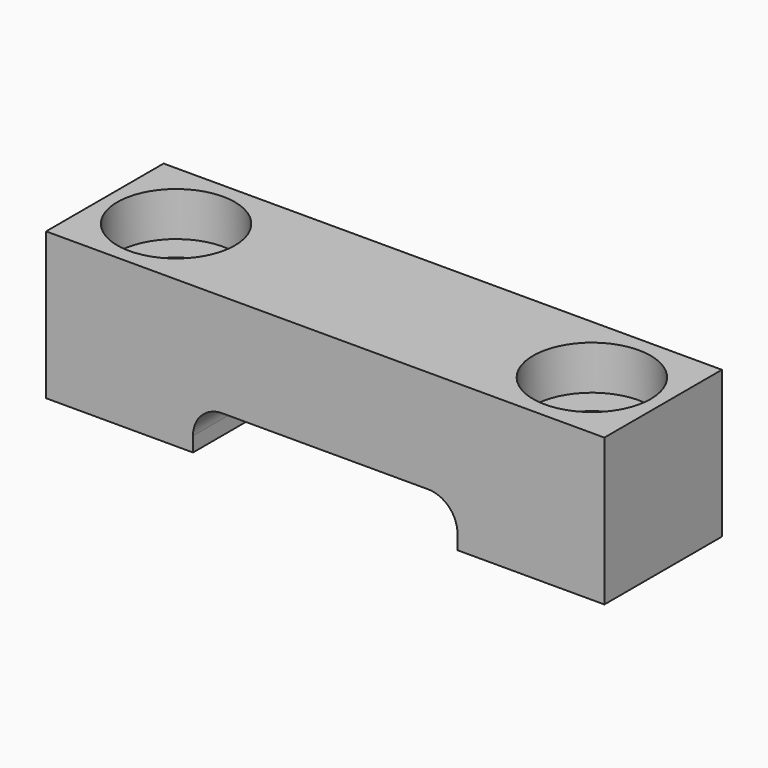
from build123d import *

# Parameters (mm, degrees)
F0_W     = 38
F0_H     = 10
F0_R     = 1.9
F1_DEPTH = 10
F2_W     = 18
F2_H     = 3
F3_DEPTH = 10.001
F4_R     = 2.7
F5_DEPTH = 4
F6_R     = 2
F7_R     = 4
F8_DEPTH = 3


with BuildPart() as f1:
    # F0 (on Top) → F1 (new body)
    with BuildSketch(Plane.XY):
        Rectangle(F0_W, F0_H)
        with Locations((-14.15, 0)):
            Circle(F0_R, mode=Mode.SUBTRACT)
        with Locations((14.15, 0)):
            Circle(F0_R, mode=Mode.SUBTRACT)
    extrude(amount=F1_DEPTH)

    # F2 (on face) → F3 (cut, through all)
    with BuildSketch(Plane.XZ.offset(5)):
        with Locations((0, 1.5)):
            Rectangle(F2_W, F2_H)
    extrude(amount=-F3_DEPTH, mode=Mode.SUBTRACT)

    # F4 (on face) → F5 (cut)
    with BuildSketch(Plane(origin=(0, 0, 0), x_dir=(1, 0, 0), z_dir=(0, 0, -1))):
        with Locations((-14.15, 0)):
            Circle(F4_R)
        with Locations((14.15, 0)):
            Circle(F4_R)
    extrude(amount=-F5_DEPTH, mode=Mode.SUBTRACT)

    # F6
    f6_edges = [f1.edges().sort_by_distance(p)[0] for p in [
        (-9, 0, 3),
        (9, 0, 3),
    ]]
    fillet(f6_edges, radius=F6_R)

    # F7 (on face) → F8 (cut)
    with BuildSketch(Plane.XY.offset(10)):
        with Locations((-14.15, 0)):
            Circle(F7_R)
        with Locations((14.15, 0)):
            Circle(F7_R)
    extrude(amount=-F8_DEPTH, mode=Mode.SUBTRACT)


solid = f1.part
